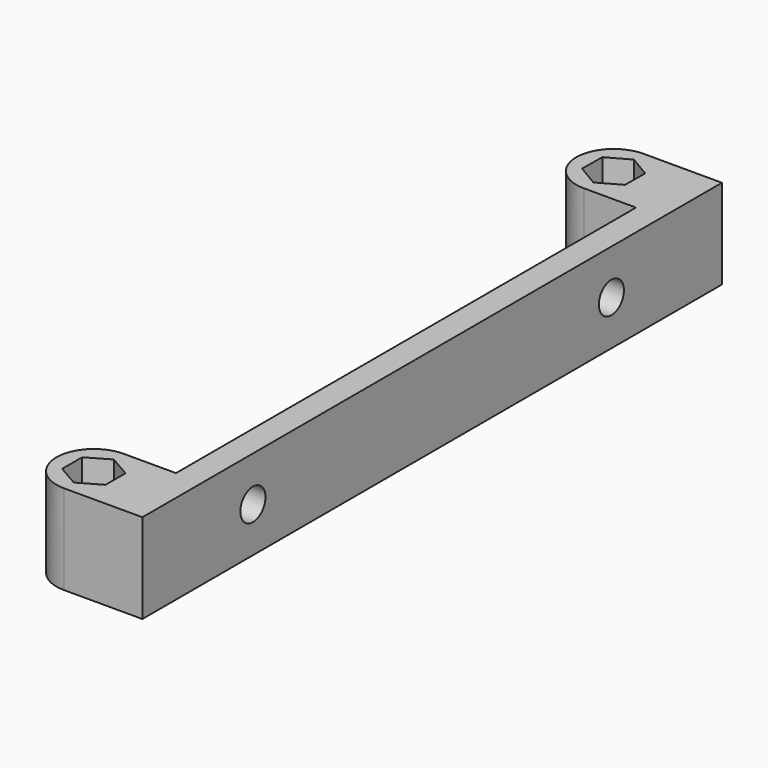
from build123d import *

# Parameters (mm, degrees)
PAD_DEPTH    = 12
SKETCH001_R  = 2.1
POCKET_DEPTH = 5


with BuildPart() as part:
    # Sketch → Pad (new body)
    with BuildSketch(Plane.XY):
        with BuildLine():
            Line((0, 48.5), (3.5, 48.5))
            Line((3.5, 48.5), (3.5, -48.5))
            Line((3.5, -48.5), (0, -48.5))
            Line((0, -48.5), (-7, -48.5))
            ThreePointArc((-7, -38.5), (-12, -43.5), (-7, -48.5))
            Line((-7, -38.5), (0, -38.5))
            Line((0, 38.5), (0, -38.5))
            Line((-7, 38.5), (0, 38.5))
            ThreePointArc((-7, 48.5), (-12, 43.5), (-7, 38.5))
            Line((0, 48.5), (-7, 48.5))
        make_face()
        Polygon((-4.120352, 41.790917), (-4.080067, 45.139307), (-6.959715, 46.848389), (-9.879648, 45.209083), (-9.919933, 41.860693), (-7.040285, 40.151611), align=None, mode=Mode.SUBTRACT)
        Polygon((-4.1, -45.174316), (-4.1, -41.825684), (-7, -40.151368), (-9.9, -41.825684), (-9.9, -45.174316), (-7, -46.848632), align=None, mode=Mode.SUBTRACT)
    extrude(amount=PAD_DEPTH)

    # Sketch001 (on Face3 of Pad) → Pocket (cut)
    with BuildSketch(Plane.YZ.offset(3.5)):
        with Locations((-30, 6)):
            Circle(SKETCH001_R)
        with Locations((30, 6)):
            Circle(SKETCH001_R)
    extrude(amount=-POCKET_DEPTH, mode=Mode.SUBTRACT)


solid = part.part
